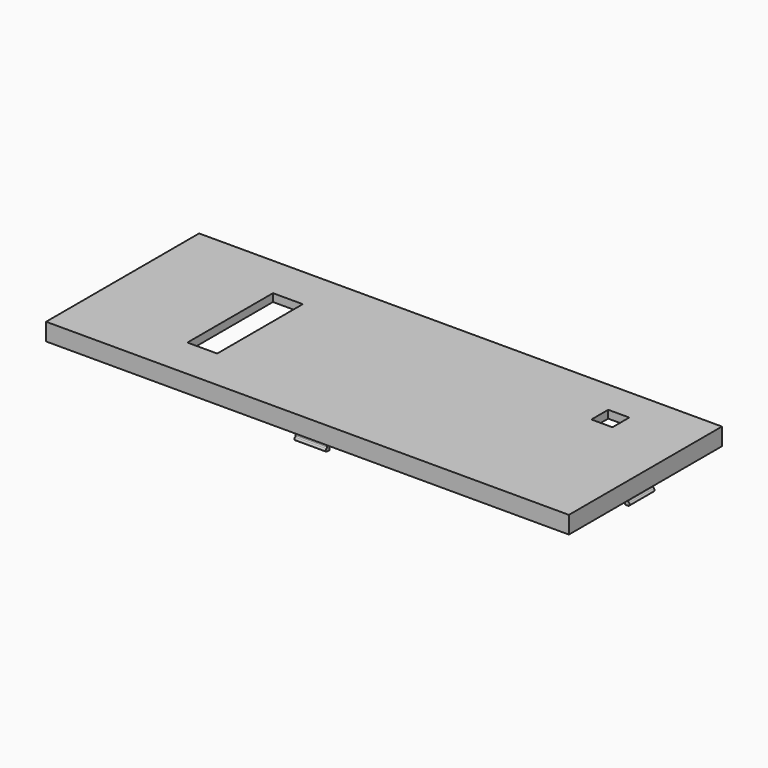
from build123d import *

# Parameters (mm, degrees)
SKETCH008_W       = 164
SKETCH008_H       = 60
PAD003_DEPTH      = 2.5
PAD003_DEPTH_BACK = 2.95
SKETCH009_W       = 163.52
SKETCH009_H       = 59.52
POCKET005_DEPTH   = 3
POCKET005_TAPER   = 25
PAD004_DEPTH      = 4.9
PAD004_DEPTH_BACK = 4.9
PAD005_DEPTH      = 4.9
PAD005_DEPTH_BACK = 4.9
SKETCH012_W       = 9.35
SKETCH012_H       = 33.56
SKETCH012_W_2     = 6.6
SKETCH012_H_2     = 6.6
POCKET006_DEPTH   = 2.45


with BuildPart() as part:
    # Sketch008 (on ShapeBinder) → Pad003 (new body, two sides)
    with BuildSketch(Plane.XY.offset(20.89)) as pad003_sk:
        Rectangle(SKETCH008_W, SKETCH008_H)
    extrude(amount=PAD003_DEPTH)
    extrude(pad003_sk.sketch, amount=-PAD003_DEPTH_BACK)

    # Sketch009 (on Face5 of Pad003) → Pocket005 (cut)
    with BuildSketch(Plane(origin=(0, 0, 17.94), x_dir=(1, 0, 0), z_dir=(0, 0, -1))):
        Rectangle(SKETCH009_W, SKETCH009_H)
    extrude(amount=-POCKET005_DEPTH, taper=POCKET005_TAPER, mode=Mode.SUBTRACT)

    # Sketch010 → Pad004 (join, two sides)
    with BuildSketch(Plane.YZ) as pad004_sk:
        with BuildLine():
            Line((-27.5, 20.94), (-28.5, 20.94))
            Line((-28.5, 20.94), (-28.5, 16.423975))
            ThreePointArc((-28.745041, 16.082391), (-28.58568, 16.226755), (-28.5, 16.423975))
            ThreePointArc((-28.745041, 16.082391), (-28.97303, 15.529737), (-28.497162, 15.167859))
            Line((-28.497162, 15.167859), (-27.5, 15.167859))
            Line((-27.5, 20.94), (-27.5, 15.167859))
        make_face()
        with BuildLine():
            Line((27.5, 20.94), (28.5, 20.94))
            Line((28.5, 20.94), (28.5, 16.423975))
            ThreePointArc((28.5, 16.423975), (28.58568, 16.226755), (28.745041, 16.082391))
            ThreePointArc((28.497162, 15.167859), (28.97303, 15.529737), (28.745041, 16.082391))
            Line((28.497162, 15.167859), (27.5, 15.167859))
            Line((27.5, 20.94), (27.5, 15.167859))
        make_face()
    extrude(amount=PAD004_DEPTH)
    extrude(pad004_sk.sketch, amount=-PAD004_DEPTH_BACK)

    # Sketch011 → Pad005 (join, two sides)
    with BuildSketch(Plane.XZ) as pad005_sk:
        with BuildLine():
            Line((-79.5, 20.94), (-80.534817, 20.94))
            Line((-80.534817, 20.94), (-80.534817, 16.445032))
            ThreePointArc((-80.76226, 16.114088), (-80.614588, 16.256228), (-80.534817, 16.445032))
            ThreePointArc((-80.76226, 16.114088), (-80.970904, 15.564248), (-80.501498, 15.209968))
            Line((-80.501498, 15.209968), (-79.5, 15.209968))
            Line((-79.5, 20.94), (-79.5, 15.209968))
        make_face()
        with BuildLine():
            Line((79.5, 20.94), (80.534817, 20.94))
            Line((80.534817, 20.94), (80.534817, 16.445032))
            ThreePointArc((80.534817, 16.445032), (80.614588, 16.256228), (80.76226, 16.114088))
            ThreePointArc((80.501498, 15.209968), (80.970904, 15.564248), (80.76226, 16.114088))
            Line((80.501498, 15.209968), (79.5, 15.209968))
            Line((79.5, 20.94), (79.5, 15.209968))
        make_face()
    extrude(amount=PAD005_DEPTH)
    extrude(pad005_sk.sketch, amount=-PAD005_DEPTH_BACK)

    # Sketch012 (on Face5 of Pad005) → Pocket006 (cut)
    with BuildSketch(Plane.XY.offset(23.39)):
        with Locations((-43.4, -0.22)):
            Rectangle(SKETCH012_W, SKETCH012_H)
        with Locations((58, 16.25)):
            Rectangle(SKETCH012_W_2, SKETCH012_H_2)
    extrude(amount=-POCKET006_DEPTH, mode=Mode.SUBTRACT)


solid = part.part
